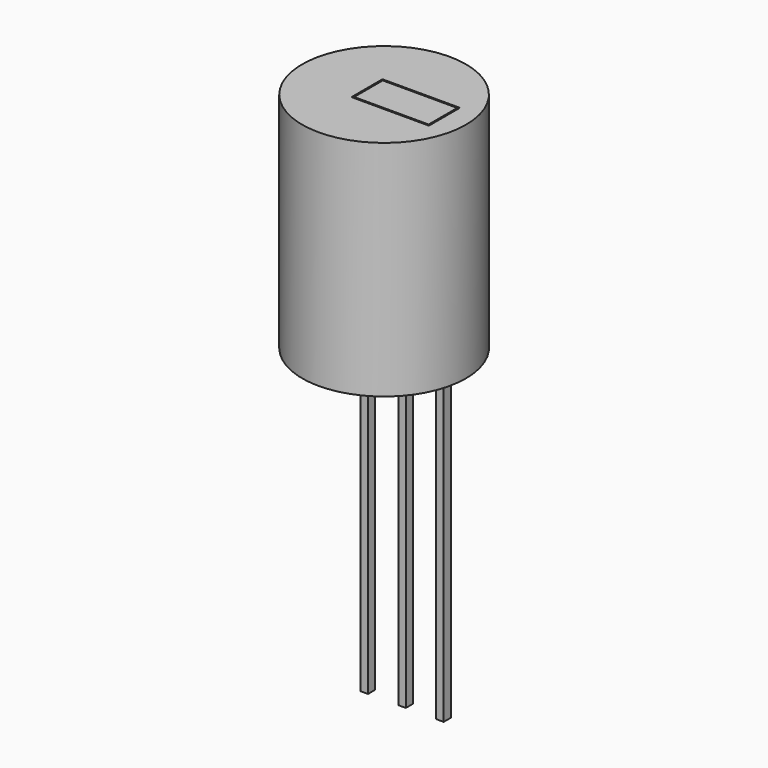
from build123d import *

# Parameters (mm, degrees)
F3_DEPTH  = 1.2
F4_DEPTH  = 0.3
F6_W      = 5.5
F6_H      = 15
F8_OFFSET = 0.1


with BuildPart() as f3:
    # F2 (on Front) → F3 (new body, symmetric)
    with BuildSketch(Plane.XZ):
        Polygon((2.5, 8.6), (0, 8.6), (-2.5, 8.6), (-2.5, 0), (-1.6084526777, 0), (-1.1084526777, 0), (-0.25, 0), (0, 0), (0.25, 0), (1.1084526777, 0), (1.6084526777, 0), (2.5, 0), align=None)
    extrude(amount=F3_DEPTH, both=True)

    # F2 (on Front) → F4 (join, symmetric)
    with BuildSketch(Plane.XZ):
        Polygon((-1.1084526777, 0), (-1.6084526777, 0), (-1.6084526777, -3.1), (-2.79, -3.1), (-2.79, -27), (-2.29, -27), (-2.29, -3.6), (-1.1084526777, -3.6), align=None)
        Polygon((0.25, -27), (0.25, 0), (0, 0), (-0.25, 0), (-0.25, -27), (0, -27), align=None)
        Polygon((1.6084526777, -3.1), (1.6084526777, 0), (1.1084526777, 0), (1.1084526777, -3.6), (2.29, -3.6), (2.29, -27), (2.79, -27), (2.79, -3.1), align=None)
    extrude(amount=F4_DEPTH, both=True)


with BuildPart() as f3_1:
    # F5: moved
    add(f3.part.moved(Location((1.45, 0, 0))))


with BuildPart() as f7:
    # F6 (on Front) → F7 (revolve)
    with BuildSketch(Plane.XZ):
        with Locations((2.75, 1.1)):
            Rectangle(F6_W, F6_H)
    revolve(axis=Axis((0, 0, 1.1), (0, 0, 1)))

    # F8: cut F3, made larger all round first
    f8_tool = offset(f3_1.part, amount=F8_OFFSET, kind=Kind.INTERSECTION, mode=Mode.PRIVATE)
    add(f8_tool, mode=Mode.SUBTRACT)


solid = Compound([f3_1.part, f7.part])
